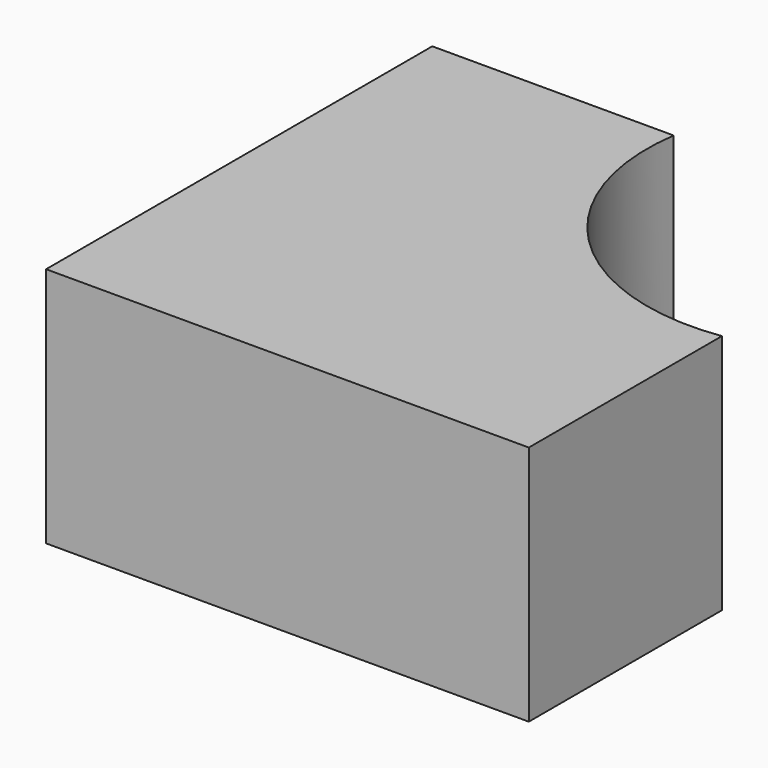
from build123d import *

# Parameters (mm, degrees)
F0_W     = 50.8
F0_H     = 50.8
F1_DEPTH = 25.4
F3_DEPTH = 25.4


with BuildPart() as f1:
    # F0 (on Top) → F1 (new body)
    with BuildSketch(Plane.XY):
        with Locations((6.909317, 8.537427)):
            Rectangle(F0_W, F0_H)
    extrude(amount=F1_DEPTH)

    # F2 (on face) → F3 (cut)
    with BuildSketch(Plane.XY.offset(25.4)):
        with BuildLine():
            ThreePointArc((6.909317, 33.937427), (13.246805, 14.874915), (32.309317, 8.537427))
            Line((32.309317, 8.537427), (32.309317, 33.937427))
            Line((32.309317, 33.937427), (6.909317, 33.937427))
        make_face()
    extrude(amount=-F3_DEPTH, mode=Mode.SUBTRACT)


solid = f1.part
